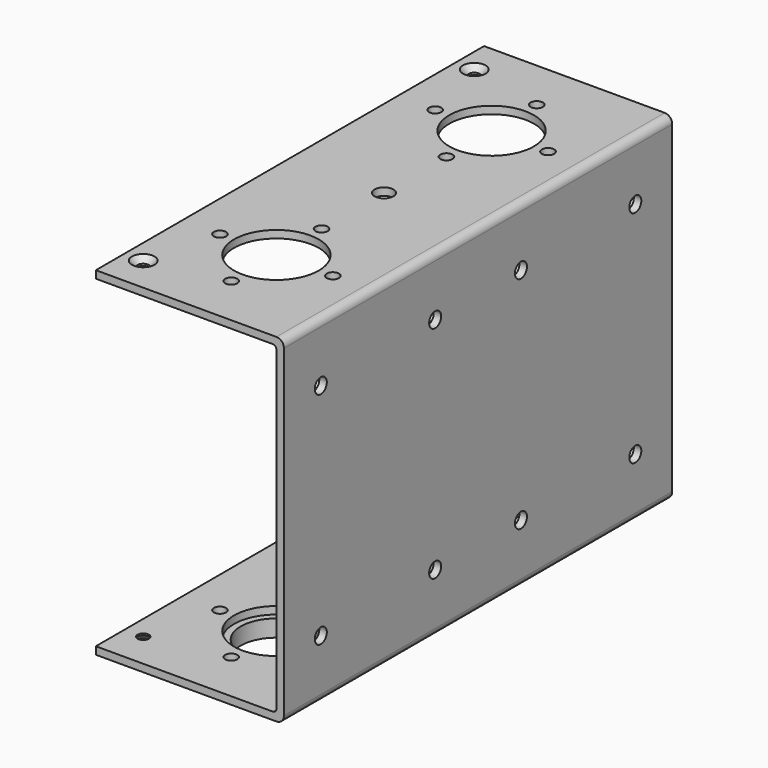
from build123d import *

# Parameters (mm, degrees)
F1_DEPTH  = 258
F2_R      = 22.5
F2_R_2    = 3.25
F3_DEPTH  = 180.001
F2_R_3    = 5
F4_DEPTH  = 4
F5_R      = 4
F6_DEPTH  = 100.001
F7_R      = 3
F8_DEPTH  = 180.001
F9_SIZE2  = 3
F9_SIZE   = 3
F10_R     = 34.5
F10_R_2   = 19
F11_DEPTH = 9
F12_SIZE  = 1


with BuildPart() as f1:
    # F0 (on Front) → F1 (new body)
    with BuildSketch(Plane.XZ):
        with BuildLine():
            Line((0, 4), (0, 0))
            Line((0, 0), (96, 0))
            ThreePointArc((96, 0), (98.8284271247, 1.1715728753), (100, 4))
            Line((100, 4), (100, 176))
            ThreePointArc((100, 176), (98.8284271247, 178.8284271247), (96, 180))
            Line((96, 180), (0, 180))
            Line((0, 180), (0, 176))
            Line((0, 176), (94, 176))
            ThreePointArc((94, 176), (95.4142135624, 175.4142135624), (96, 174))
            Line((96, 174), (96, 6))
            ThreePointArc((96, 6), (95.4142135624, 4.5857864376), (94, 4))
            Line((94, 4), (0, 4))
        make_face()
    extrude(amount=F1_DEPTH)

    # F2 (on face) → F3 (cut, through all)
    with BuildSketch(Plane.XY.offset(180)):
        with Locations((50, -200.5)):
            Circle(F2_R)
        with Locations((50, -87.5)):
            Circle(F2_R_2)
        with Locations((50, -57.5)):
            Circle(F2_R)
        with Locations((20, -57.5)):
            Circle(F2_R_2)
        with Locations((80, -57.5)):
            Circle(F2_R_2)
        with Locations((50, -27.5)):
            Circle(F2_R_2)
        with Locations((50, -170.5)):
            Circle(F2_R_2)
        with Locations((80, -200.5)):
            Circle(F2_R_2)
        with Locations((50, -230.5)):
            Circle(F2_R_2)
        with Locations((20, -200.5)):
            Circle(F2_R_2)
    extrude(amount=-F3_DEPTH, mode=Mode.SUBTRACT)

    # F2 (on face) → F4 (cut, through all)
    with BuildSketch(Plane.XY.offset(180)):
        with Locations((50, -129)):
            Circle(F2_R_3)
    extrude(amount=-F4_DEPTH, mode=Mode.SUBTRACT)

    # F5 (on face) → F6 (cut, through all)
    with BuildSketch(Plane.YZ.offset(100)):
        with Locations((-233.5, 148.5)):
            Circle(F5_R)
        with Locations((-233.5, 31.5)):
            Circle(F5_R)
        with Locations((-157.5, 148.5)):
            Circle(F5_R)
        with Locations((-157.5, 31.5)):
            Circle(F5_R)
        with Locations((-100.5, 148.5)):
            Circle(F5_R)
        with Locations((-100.5, 31.5)):
            Circle(F5_R)
        with Locations((-24.5, 148.5)):
            Circle(F5_R)
        with Locations((-24.5, 31.5)):
            Circle(F5_R)
    extrude(amount=-F6_DEPTH, mode=Mode.SUBTRACT)

    # F7 (on face) → F8 (cut, through all)
    with BuildSketch(Plane.XY.offset(180)):
        with Locations((10, -239)):
            Circle(F7_R)
        with Locations((10, -19)):
            Circle(F7_R)
    extrude(amount=-F8_DEPTH, mode=Mode.SUBTRACT)

    # F9
    f9_edges = [f1.edges().sort_by_distance(p)[0] for p in [
        (7, -19, 180),
        (7, -239, 180),
        (7, -239, 0),
        (7, -19, 0),
    ]]
    chamfer(f9_edges, length=F9_SIZE, length2=F9_SIZE2)

    # F10 (on face) → F11 (join)
    with BuildSketch(Plane(origin=(0, 0, 0), x_dir=(1, 0, 0), z_dir=(0, 0, -1))):
        with Locations((50, 57.5)):
            Circle(F10_R)
        with Locations((50, 57.5)):
            Circle(F10_R_2, mode=Mode.SUBTRACT)
        with Locations((50, 200.5)):
            Circle(F10_R)
        with Locations((50, 200.5)):
            Circle(F10_R_2, mode=Mode.SUBTRACT)
    extrude(amount=F11_DEPTH)

    # F12
    f12_edges = [f1.edges().sort_by_distance(p)[0] for p in [
        (15.5, -200.5, -9),
        (15.5, -57.5, -9),
    ]]
    chamfer(f12_edges, length=F12_SIZE)


solid = f1.part
